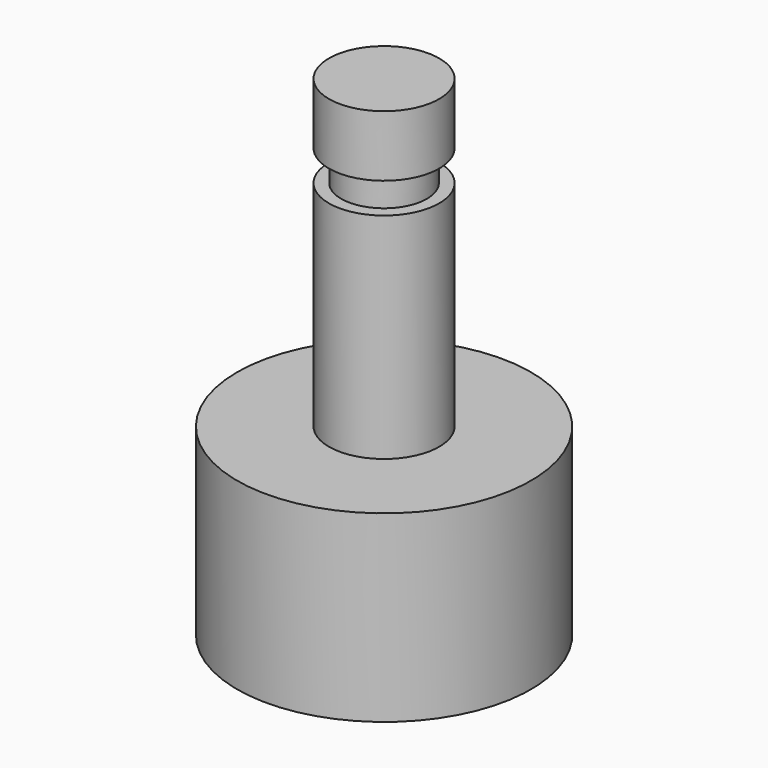
from build123d import *

# Parameters (mm, degrees)
F0_W = 1.75
F0_H = 1.25


with BuildPart() as f1:
    # F0 (on Front) → F1 (revolve)
    with BuildSketch(Plane.XZ):
        with Locations((-0.875, 13.125)):
            Rectangle(F0_W, F0_H)
        Polygon((-2.25, 16.25), (-2.25, 13.75), (-1.75, 13.75), (0, 13.75), (0, 16.25), align=None)
        Polygon((-2.25, 12.5), (-2.25, 3.75), (0, 3.75), (0, 12.5), (-1.75, 12.5), align=None)
        Polygon((-2.25, 3.75), (-6, 3.75), (-6, -3.75), (0, -3.75), (0, 3.75), align=None)
    revolve(axis=Axis((0, 0, 6.25), (0, 0, 1)))


solid = f1.part
